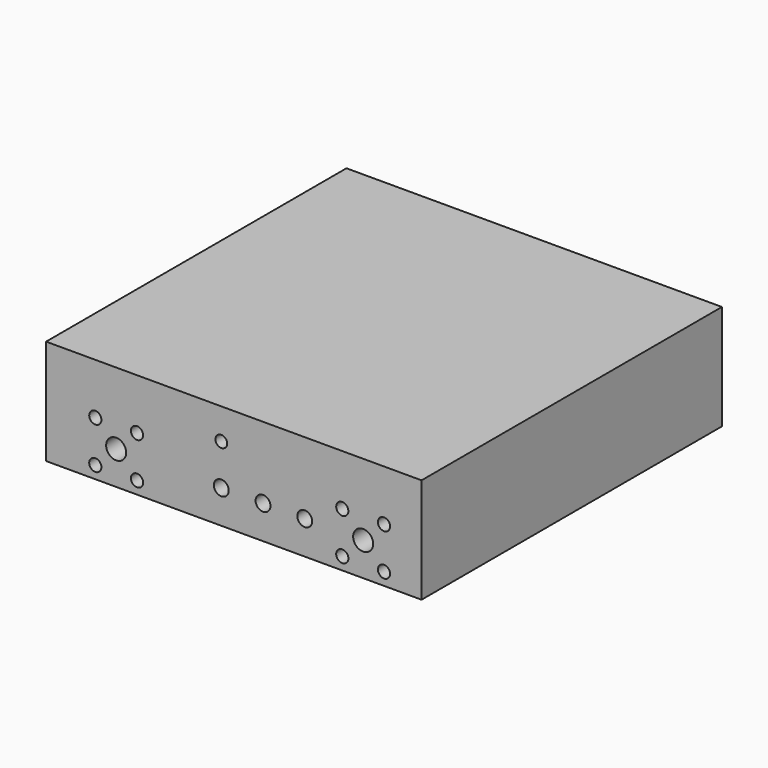
from build123d import *

# Parameters (mm, degrees)
F0_W      = 57.15
F0_H      = 57.15
F1_DEPTH  = 8.001
F2_R      = 1.524
F3_DEPTH  = 3.429
F5_D      = 2.2606
F5_DEPTH  = 8.255
F5_TIP    = 0.6791527577
F6_R      = 0.9271
F7_DEPTH  = 3.429
F9_D      = 1.778
F9_DEPTH  = 3.429
F9_TIP    = 0.5341650903
F11_D     = 2.2606
F11_DEPTH = 3.429
F11_TIP   = 0.6791527577


with BuildPart() as f1:
    # F0 (on Top) → F1 (new body, symmetric)
    with BuildSketch(Plane.XY):
        Rectangle(F0_W, F0_H)
    extrude(amount=F1_DEPTH, both=True)

    # F2 (on face) → F3 (cut)
    with BuildSketch(Plane.XZ.offset(28.575)):
        with Locations((-17.907, -2.921)):
            Circle(F2_R)
        with Locations((19.685, -2.921)):
            Circle(F2_R)
    extrude(amount=-F3_DEPTH, mode=Mode.SUBTRACT)

    # F5
    with Locations(Plane(origin=(-28.575, 0, 0), x_dir=(0, -1, 0), z_dir=(-1, 0, 0))):
        with Locations((12.7, 4.191), (-12.7, 4.191)):
            Hole(F5_D / 2, depth=F5_DEPTH)
            with Locations((0, 0, -(F5_DEPTH + F5_TIP / 2))):  # 118° drill point
                Cone(0, F5_D / 2, F5_TIP, mode=Mode.SUBTRACT)

    # F6 (on face) → F7 (cut)
    with BuildSketch(Plane.XZ.offset(28.575)):
        with Locations((-21.082, 0.254)):
            Circle(F6_R)
        with Locations((-21.082, -6.096)):
            Circle(F6_R)
        with Locations((-14.732, 0.254)):
            Circle(F6_R)
        with Locations((-14.732, -6.096)):
            Circle(F6_R)
        with Locations((16.51, 0.254)):
            Circle(F6_R)
        with Locations((16.51, -6.096)):
            Circle(F6_R)
        with Locations((22.86, 0.254)):
            Circle(F6_R)
        with Locations((22.86, -6.096)):
            Circle(F6_R)
    extrude(amount=-F7_DEPTH, mode=Mode.SUBTRACT)

    # F9
    with Locations(Plane.XZ.offset(28.575)):
        with Locations((-1.905, 3.302)):
            Hole(F9_D / 2, depth=F9_DEPTH)
            with Locations((0, 0, -(F9_DEPTH + F9_TIP / 2))):  # 118° drill point
                Cone(0, F9_D / 2, F9_TIP, mode=Mode.SUBTRACT)

    # F11
    with Locations(Plane.XZ.offset(28.575)):
        with Locations((-1.905, -2.921), (4.445, -2.921), (10.795, -2.921)):
            Hole(F11_D / 2, depth=F11_DEPTH)
            with Locations((0, 0, -(F11_DEPTH + F11_TIP / 2))):  # 118° drill point
                Cone(0, F11_D / 2, F11_TIP, mode=Mode.SUBTRACT)


solid = f1.part
